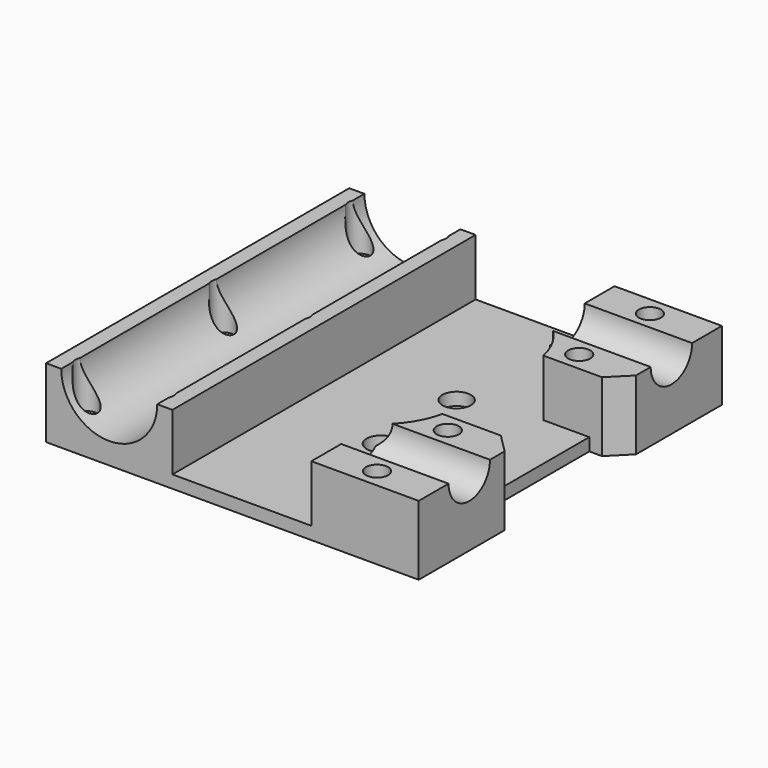
from build123d import *

# Parameters (mm, degrees)
SKETCH_W        = 59
SKETCH_H        = 60
PAD_DEPTH       = 11
SKETCH001_R     = 7.6
POCKET_DEPTH    = 60.001
SKETCH002_R     = 1.75
POCKET001_DEPTH = 11.001
POCKET002_DEPTH = 9
SKETCH004_R     = 2.25
POCKET003_DEPTH = 11.001
SKETCH008_R     = 4.1
POCKET005_DEPTH = 20
SKETCH010_W     = 20
SKETCH010_H     = 25
POCKET006_DEPTH = 5
SKETCH011_R     = 2.9
POCKET007_DEPTH = 3.5
CHAMFER_SIZE    = 3


with BuildPart() as part:
    # Sketch → Pad (new body)
    with BuildSketch(Plane.XY):
        with Locations((19.5, 0)):
            Rectangle(SKETCH_W, SKETCH_H)
    extrude(amount=PAD_DEPTH)

    # Sketch001 → Pocket (cut, through all)
    with BuildSketch(Plane.XZ.offset(30)):
        with Locations((0, 11)):
            Circle(SKETCH001_R)
    extrude(amount=-POCKET_DEPTH, mode=Mode.SUBTRACT)

    # Sketch002 → Pocket001 (cut, through all)
    with BuildSketch(Plane.XY.offset(11)):
        with Locations((-6, 27)):
            Circle(SKETCH002_R)
        with Locations((40, 27)):
            Circle(SKETCH002_R)
        with Locations((-6, -27)):
            Circle(SKETCH002_R)
        with Locations((40, -27)):
            Circle(SKETCH002_R)
        with Locations((6, 27)):
            Circle(SKETCH002_R)
        with Locations((6, -27)):
            Circle(SKETCH002_R)
        with Locations((6, 0)):
            Circle(SKETCH002_R)
        with Locations((-6, 0)):
            Circle(SKETCH002_R)
        with Locations((40, -13)):
            Circle(SKETCH002_R)
        with Locations((40, 13)):
            Circle(SKETCH002_R)
    extrude(amount=-POCKET001_DEPTH, mode=Mode.SUBTRACT)

    # Sketch003 → Pocket002 (cut)
    with BuildSketch(Plane.XY.offset(11)):
        with BuildLine():
            Line((10, 35), (10, -35))
            Line((10, -35), (32, -35))
            Line((32, -35), (32, -17.246794))
            ThreePointArc((32, -17.246794), (35.044647, -14.065445), (36.736695, -10))
            Line((36.736695, -10), (56.736695, -10))
            Line((56.736695, -10), (56.736695, 10))
            Line((56.736695, 10), (36.736695, 10))
            ThreePointArc((36.736695, 10), (35.044647, 14.065445), (32, 17.246794))
            Line((32, 17.246794), (32, 35))
            Line((32, 35), (10, 35))
        make_face()
    extrude(amount=-POCKET002_DEPTH, mode=Mode.SUBTRACT)

    # Sketch004 → Pocket003 (cut, through all)
    with BuildSketch(Plane(origin=(0, 0, 0), x_dir=(1, 0, 0), z_dir=(0, 0, -1))):
        with Locations((25, 7.5)):
            Circle(SKETCH004_R)
        with Locations((25, -7.5)):
            Circle(SKETCH004_R)
    extrude(amount=-POCKET003_DEPTH, mode=Mode.SUBTRACT)

    # Sketch008 → Pocket005 (cut)
    with BuildSketch(Plane.YZ.offset(49)):
        with Locations((-20, 11)):
            Circle(SKETCH008_R)
        with Locations((20, 11)):
            Circle(SKETCH008_R)
    extrude(amount=-POCKET005_DEPTH, mode=Mode.SUBTRACT)

    # Sketch010 → Pocket006 (cut)
    with BuildSketch(Plane.YZ.offset(49)):
        with Locations((0, 5.473744)):
            Rectangle(SKETCH010_W, SKETCH010_H)
    extrude(amount=-POCKET006_DEPTH, mode=Mode.SUBTRACT)

    # Sketch011 → Pocket007 (cut)
    with BuildSketch(Plane(origin=(0, 0, 0), x_dir=(1, 0, 0), z_dir=(0, 0, -1))):
        with Locations((6, 27)):
            Circle(SKETCH011_R)
        with Locations((40, -13)):
            Circle(SKETCH011_R)
        with Locations((-6, -27)):
            Circle(SKETCH011_R)
        with Locations((6, -27)):
            Circle(SKETCH011_R)
        with Locations((40, 27)):
            Circle(SKETCH011_R)
        with Locations((40, 13)):
            Circle(SKETCH011_R)
        with Locations((40, -27)):
            Circle(SKETCH011_R)
        with Locations((-6, 27)):
            Circle(SKETCH011_R)
        with Locations((6, 0)):
            Circle(SKETCH011_R)
        with Locations((-6, 0)):
            Circle(SKETCH011_R)
    extrude(amount=-POCKET007_DEPTH, mode=Mode.SUBTRACT)

    # Chamfer
    chamfer_edges = [part.edges().sort_by_distance(p)[0] for p in [
        (49, -10, 6.5),
        (49, 10, 6.5),
    ]]
    chamfer(chamfer_edges, length=CHAMFER_SIZE)


solid = part.part
